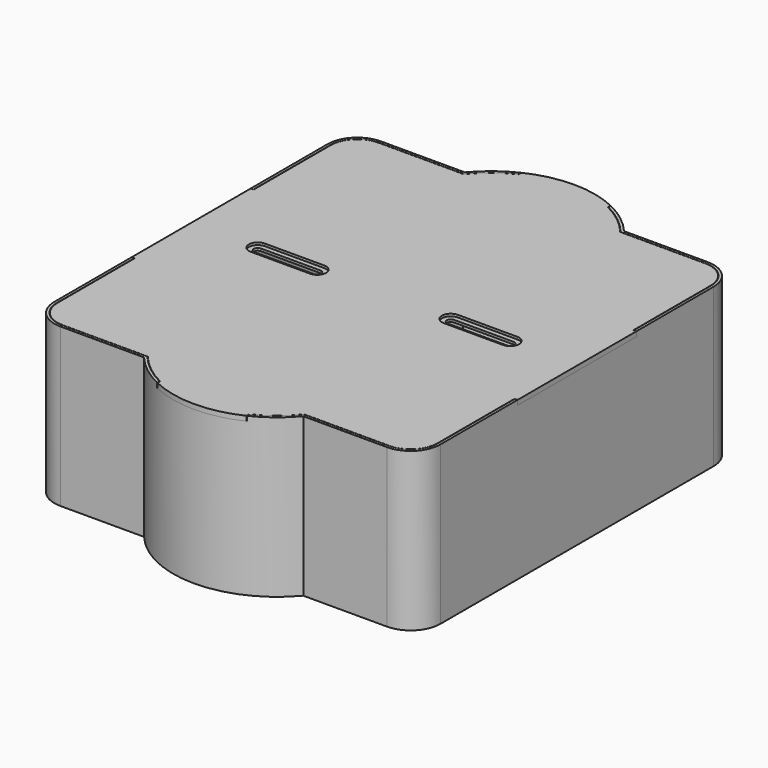
from build123d import *

# Parameters (mm, degrees)
F11_DEPTH = 53.201
F12_DEPTH = 0.8


with BuildPart() as f4:
    # F4: sweep along a path in F3
    with BuildLine(Plane.XZ) as f4_path:
        Line((0, 0), (0, -1.6))
    # F1 (on Top) → F4 (sweep)
    with BuildSketch(Plane.XY):
        with BuildLine():
            ThreePointArc((-55, 67.5), (-62.0710678119, 64.5710678119), (-65, 57.5))
            Line((-65, 57.5), (-65, -57.5))
            ThreePointArc((-65, -57.5), (-62.0710678119, -64.5710678119), (-55, -67.5))
            Line((-55, -67.5), (-26.8095132369, -67.5))
            ThreePointArc((-26.8095132369, -67.5), (0, -80), (26.8095132369, -67.5))
            Line((26.8095132369, -67.5), (55, -67.5))
            ThreePointArc((55, -67.5), (62.0710678119, -64.5710678119), (65, -57.5))
            Line((65, -57.5), (65, 57.5))
            ThreePointArc((65, 57.5), (62.0710678119, 64.5710678119), (55, 67.5))
            Line((55, 67.5), (26.8095132369, 67.5))
            ThreePointArc((26.8095132369, 67.5), (0, 80), (-26.8095132369, 67.5))
            Line((-26.8095132369, 67.5), (-55, 67.5))
        make_face()
    sweep(path=f4_path.line)

    # F5: sweep along a path in F3
    with BuildLine(Plane.XZ) as f5_path:
        Line((0, 0), (0, 50))
        Line((0, 50), (0, 51.6))
    # F2 (on Top) → F5 (sweep)
    with BuildSketch(Plane.XY):
        with BuildLine():
            ThreePointArc((26.8095132369, 67.5), (0, 80), (-26.8095132369, 67.5))
            Line((-26.8095132369, 67.5), (-55, 67.5))
            ThreePointArc((-55, 67.5), (-62.0710678119, 64.5710678119), (-65, 57.5))
            Line((-65, 57.5), (-65, -57.5))
            ThreePointArc((-65, -57.5), (-62.0710678119, -64.5710678119), (-55, -67.5))
            Line((-55, -67.5), (-26.8095132369, -67.5))
            ThreePointArc((-26.8095132369, -67.5), (0, -80), (26.8095132369, -67.5))
            Line((26.8095132369, -67.5), (55, -67.5))
            ThreePointArc((55, -67.5), (62.0710678119, -64.5710678119), (65, -57.5))
            Line((65, -57.5), (65, 57.5))
            ThreePointArc((65, 57.5), (62.0710678119, 64.5710678119), (55, 67.5))
            Line((55, 67.5), (26.8095132369, 67.5))
        make_face()
        with BuildLine():
            ThreePointArc((-63.2, 57.5), (-60.7982756057, 63.2982756057), (-55, 65.7))
            Line((-55, 65.7), (-25.9566947048, 65.7))
            ThreePointArc((-25.9566947048, 65.7), (0, 78.2), (25.9566947048, 65.7))
            Line((25.9566947048, 65.7), (55, 65.7))
            ThreePointArc((55, 65.7), (60.7982756057, 63.2982756057), (63.2, 57.5))
            Line((63.2, 57.5), (63.2, -57.5))
            ThreePointArc((63.2, -57.5), (60.7982756057, -63.2982756057), (55, -65.7))
            Line((55, -65.7), (25.9566947048, -65.7))
            ThreePointArc((25.9566947048, -65.7), (0, -78.2), (-25.9566947048, -65.7))
            Line((-25.9566947048, -65.7), (-55, -65.7))
            ThreePointArc((-55, -65.7), (-60.7982756057, -63.2982756057), (-63.2, -57.5))
            Line((-63.2, -57.5), (-63.2, 57.5))
        make_face(mode=Mode.SUBTRACT)
    sweep(path=f5_path.line)

    # F8: sweep along a path in F3
    with BuildLine(Plane.XZ) as f8_path:
        Line((0, 50), (0, 51.6))
    # F7 (on face) → F8 (sweep, cut)
    with BuildSketch(Plane.XY.offset(51.6)):
        with BuildLine():
            ThreePointArc((-15.1, 75.5744991782), (-21.2230737261, 71.6906564478), (-26.3865496039, 66.6))
            Line((-26.3865496039, 66.6), (-55, 66.6))
            ThreePointArc((-55, 66.6), (-61.4346717088, 63.9346717088), (-64.1, 57.5))
            Line((-64.1, 57.5), (-64.1, 25.1))
            Line((-64.1, 25.1), (-65.1, 25.1))
            Line((-65.1, 25.1), (-65.1, -25.1))
            Line((-65.1, -25.1), (-64.1, -25.1))
            Line((-64.1, -25.1), (-64.1, -57.5))
            ThreePointArc((-64.1, -57.5), (-61.4346717088, -63.9346717088), (-55, -66.6))
            Line((-55, -66.6), (-26.3865496039, -66.6))
            ThreePointArc((-26.3865496039, -66.6), (-21.2230737261, -71.6906564478), (-15.1, -75.5744991782))
            Line((-15.1, -75.5744991782), (-15.1, -76.6859590355))
            ThreePointArc((-15.1, -76.6859590355), (0, -80.1), (15.1, -76.6859590355))
            Line((15.1, -76.6859590355), (15.1, -75.5744991782))
            ThreePointArc((15.1, -75.5744991782), (21.2230737261, -71.6906564478), (26.3865496039, -66.6))
            Line((26.3865496039, -66.6), (55, -66.6))
            ThreePointArc((55, -66.6), (61.4346717088, -63.9346717088), (64.1, -57.5))
            Line((64.1, -57.5), (64.1, -25.1))
            Line((64.1, -25.1), (65.1, -25.1))
            Line((65.1, -25.1), (65.1, 25.1))
            Line((65.1, 25.1), (64.1, 25.1))
            Line((64.1, 25.1), (64.1, 57.5))
            ThreePointArc((64.1, 57.5), (61.4346717088, 63.9346717088), (55, 66.6))
            Line((55, 66.6), (26.3865496039, 66.6))
            ThreePointArc((26.3865496039, 66.6), (21.2230737261, 71.6906564478), (15.1, 75.5744991782))
            Line((15.1, 75.5744991782), (15.1, 76.6859590355))
            ThreePointArc((15.1, 76.6859590355), (0, 80.1), (-15.1, 76.6859590355))
            Line((-15.1, 76.6859590355), (-15.1, 75.5744991782))
        make_face()
    sweep(path=f8_path.line, mode=Mode.SUBTRACT)


with BuildPart() as f9:
    # F9: sweep along a path in F3
    with BuildLine(Plane.XZ) as f9_path:
        Line((0, 50), (0, 51.6))
    # F6 (on face) → F9 (sweep)
    with BuildSketch(Plane.XY.offset(51.6)):
        with BuildLine():
            ThreePointArc((-15, 75.5122926048), (-21.1550552437, 71.6169802501), (-26.3391343821, 66.5))
            Line((-26.3391343821, 66.5), (-55, 66.5))
            ThreePointArc((-55, 66.5), (-61.3639610307, 63.8639610307), (-64, 57.5))
            Line((-64, 57.5), (-64, 25))
            Line((-64, 25), (-65, 25))
            Line((-65, 25), (-65, -25))
            Line((-65, -25), (-64, -25))
            Line((-64, -25), (-64, -57.5))
            ThreePointArc((-64, -57.5), (-61.3639610307, -63.8639610307), (-55, -66.5))
            Line((-55, -66.5), (-26.3391343821, -66.5))
            ThreePointArc((-26.3391343821, -66.5), (-21.1550552437, -71.6169802501), (-15, -75.5122926048))
            Line((-15, -75.5122926048), (-15, -76.6227766017))
            ThreePointArc((-15, -76.6227766017), (0, -80), (15, -76.6227766017))
            Line((15, -76.6227766017), (15, -75.5122926048))
            ThreePointArc((15, -75.5122926048), (21.1550552437, -71.6169802501), (26.3391343821, -66.5))
            Line((26.3391343821, -66.5), (55, -66.5))
            ThreePointArc((55, -66.5), (61.3639610307, -63.8639610307), (64, -57.5))
            Line((64, -57.5), (64, -25))
            Line((64, -25), (65, -25))
            Line((65, -25), (65, 25))
            Line((65, 25), (64, 25))
            Line((64, 25), (64, 57.5))
            ThreePointArc((64, 57.5), (61.3639610307, 63.8639610307), (55, 66.5))
            Line((55, 66.5), (26.3391343821, 66.5))
            ThreePointArc((26.3391343821, 66.5), (21.1550552437, 71.6169802501), (15, 75.5122926048))
            Line((15, 75.5122926048), (15, 76.6227766017))
            ThreePointArc((15, 76.6227766017), (0, 80), (-15, 76.6227766017))
            Line((-15, 76.6227766017), (-15, 75.5122926048))
        make_face()
    sweep(path=f9_path.line)

    # F10 (on face) → F11 (cut, through all)
    with BuildSketch(Plane.XY.offset(51.6)):
        with BuildLine():
            ThreePointArc((-22.5, -1.35), (-21.15, 0), (-22.5, 1.35))
            Line((-22.5, 1.35), (-42.5, 1.35))
            ThreePointArc((-42.5, 1.35), (-43.85, 0), (-42.5, -1.35))
            Line((-42.5, -1.35), (-22.5, -1.35))
        make_face()
        with BuildLine():
            Line((42.5, 1.35), (22.5, 1.35))
            ThreePointArc((22.5, 1.35), (21.15, 0), (22.5, -1.35))
            Line((22.5, -1.35), (42.5, -1.35))
            ThreePointArc((42.5, -1.35), (43.85, 0), (42.5, 1.35))
        make_face()
    extrude(amount=-F11_DEPTH, mode=Mode.SUBTRACT)

    # F10 (on face) → F12 (cut)
    with BuildSketch(Plane.XY.offset(51.6)):
        with BuildLine():
            ThreePointArc((-22.5, -3), (-19.5, 0), (-22.5, 3))
            Line((-22.5, 3), (-42.5, 3))
            ThreePointArc((-42.5, 3), (-45.5, 0), (-42.5, -3))
            Line((-42.5, -3), (-22.5, -3))
        make_face()
        with BuildLine():
            Line((-42.5, 1.35), (-22.5, 1.35))
            ThreePointArc((-22.5, 1.35), (-21.15, 0), (-22.5, -1.35))
            Line((-22.5, -1.35), (-42.5, -1.35))
            ThreePointArc((-42.5, -1.35), (-43.85, 0), (-42.5, 1.35))
        make_face(mode=Mode.SUBTRACT)
        with BuildLine():
            Line((42.5, 3), (22.5, 3))
            ThreePointArc((22.5, 3), (19.5, 0), (22.5, -3))
            Line((22.5, -3), (42.5, -3))
            ThreePointArc((42.5, -3), (45.5, 0), (42.5, 3))
        make_face()
        with BuildLine():
            ThreePointArc((22.5, -1.35), (21.15, 0), (22.5, 1.35))
            Line((22.5, 1.35), (42.5, 1.35))
            ThreePointArc((42.5, 1.35), (43.85, 0), (42.5, -1.35))
            Line((42.5, -1.35), (22.5, -1.35))
        make_face(mode=Mode.SUBTRACT)
    extrude(amount=-F12_DEPTH, mode=Mode.SUBTRACT)


solid = Compound([f4.part, f9.part])
